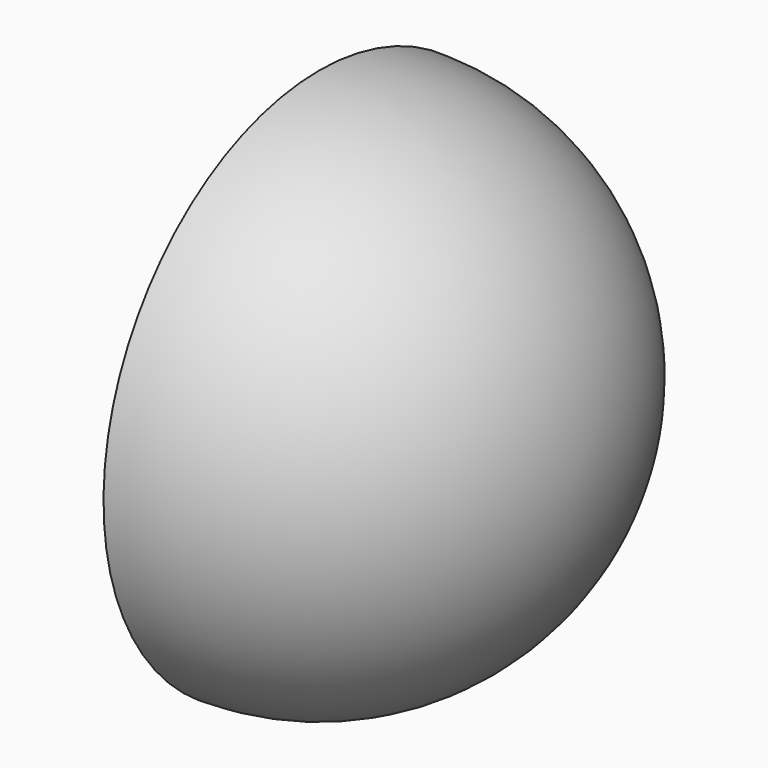
from build123d import *


with BuildPart() as f1:
    # F0 (on Front) → F1 (revolve)
    with BuildSketch(Plane.XZ):
        with BuildLine():
            ThreePointArc((10.6578953564, 0), (7.5362700797, 7.5362700797), (0, 10.6578953564))
            Line((0, 10.6578953564), (0, 0))
            Line((0, 0), (0.6583319628, 0))
            Line((0.6583319628, 0), (0.6583319628, 3.9587058127))
            add(Edge.make_bspline(
                [(0.6583319628, 3.9587058127), (0.7194823184, 4.1596419234), (0.9752892416, 5.0002069155), (1.2262350315, 2.160714764), (1.4171925141, 0)],
                knots=[0, 0, 0, 0, 0.239048869, 1, 1, 1, 1], degree=3))
            Line((1.4171925141, 0), (10.6578953564, 0))
        make_face()
    revolve(axis=Axis((6.0375439352, 0, 0), (1, 0, 0)))


solid = f1.part
